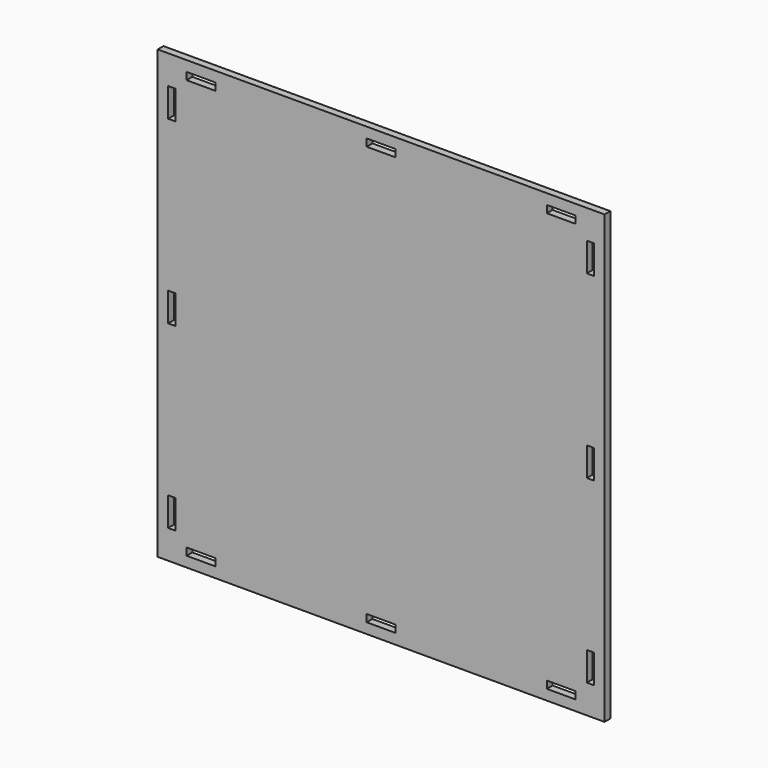
from build123d import *

# Parameters (mm, degrees)
F0_W     = 196.85
F0_H     = 196.85
F1_DEPTH = 3.175
F2_W     = 12.7
F2_H     = 3.2258
F2_W_2   = 3.2258
F2_H_2   = 12.7
F3_DEPTH = 3.175


with BuildPart() as f1:
    # F0 (on Front) → F1 (new body)
    with BuildSketch(Plane.XZ):
        Rectangle(F0_W, F0_H)
    extrude(amount=F1_DEPTH)

    # F2 (on face) → F3 (cut)
    with BuildSketch(Plane.XZ.offset(3.175)):
        with Locations((79.375, -92.2401)):
            Rectangle(F2_W, F2_H)
        with Locations((92.2401, 79.375)):
            Rectangle(F2_W_2, F2_H_2)
        with Locations((92.2401, -79.375)):
            Rectangle(F2_W_2, F2_H_2)
        with Locations((0, -92.2401)):
            Rectangle(F2_W, F2_H)
        with Locations((92.2401, 0)):
            Rectangle(F2_W_2, F2_H_2)
        with Locations((-79.375, -92.2401)):
            Rectangle(F2_W, F2_H)
        with Locations((-92.2401, 79.375)):
            Rectangle(F2_W_2, F2_H_2)
        with Locations((-92.2401, -79.375)):
            Rectangle(F2_W_2, F2_H_2)
        with Locations((-92.2401, 0)):
            Rectangle(F2_W_2, F2_H_2)
        with Locations((-79.375, 92.2401)):
            Rectangle(F2_W, F2_H)
        with Locations((0, 92.2401)):
            Rectangle(F2_W, F2_H)
        with Locations((79.375, 92.2401)):
            Rectangle(F2_W, F2_H)
    extrude(amount=-F3_DEPTH, mode=Mode.SUBTRACT)


solid = f1.part
